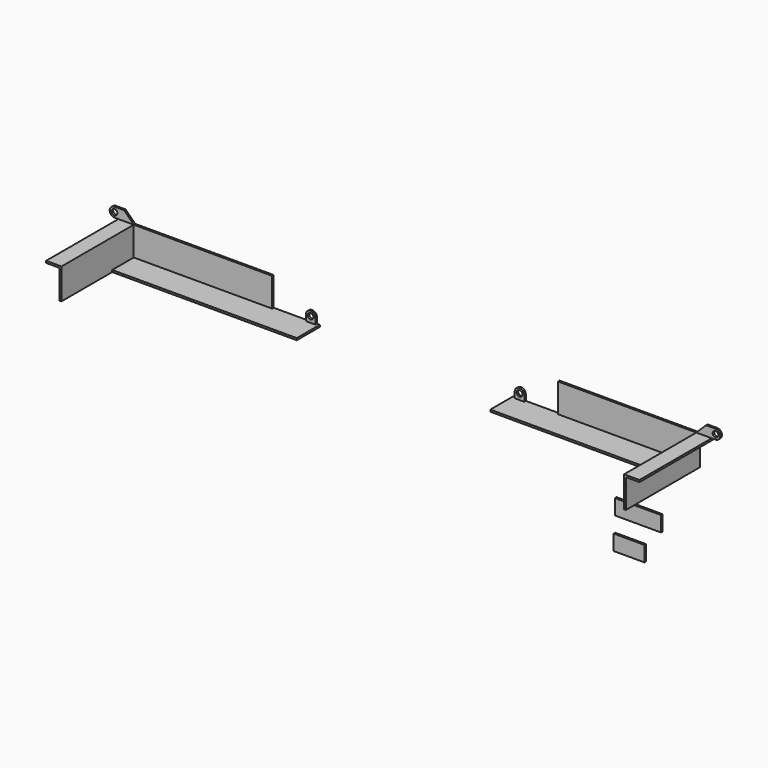
from build123d import *

# Parameters (mm, degrees)
F1_DEPTH = 152.4
F0_R     = 4.7625
F2_DEPTH = 3.175
F0_W     = 228.6
F0_H     = 3.175
F0_W_2   = 25.4
F3_DEPTH = 47.625
F0_H_2   = 47.625
F4_DEPTH = 3.175
F5_W     = 76.2
F5_H     = 25.4
F5_W_2   = 50.8
F6_DEPTH = 3.175


with BuildPart() as f1:
    # F0 (on Front) → F1 (new body)
    with BuildSketch(Plane.XZ):
        Polygon((-834.53792, 42.034976), (-834.53792, 45.209976), (-834.53792, 92.834976), (-859.93792, 92.834976), (-859.93792, 89.659976), (-837.71292, 89.659976), (-837.71292, 42.034976), align=None)
        Polygon((120.089924, 89.659976), (120.089924, 92.834976), (94.689924, 92.834976), (94.689924, 45.209976), (94.689924, 42.034976), (97.864924, 42.034976), (97.864924, 89.659976), align=None)
    extrude(amount=F1_DEPTH)


with BuildPart() as f2:
    # F0 (on Front) → F2 (new body)
    with BuildSketch(Plane.XZ):
        with BuildLine():
            ThreePointArc((-858.35042, 100.772476), (-860.67526, 106.385136), (-866.28792, 108.709976))
            ThreePointArc((-866.28792, 108.709976), (-874.22542, 100.772476), (-866.28792, 92.834976))
            ThreePointArc((-866.28792, 92.834976), (-860.67526, 95.159816), (-858.35042, 100.772476))
        make_face()
        with Locations((-866.28792, 100.772476)):
            Circle(F0_R, mode=Mode.SUBTRACT)
        with BuildLine():
            Line((-859.93792, 92.834976), (-834.53792, 92.834976))
            Line((-834.53792, 92.834976), (-850.41292, 108.709976))
            Line((-850.41292, 108.709976), (-866.28792, 108.709976))
            ThreePointArc((-866.28792, 108.709976), (-860.67526, 106.385136), (-858.35042, 100.772476))
            ThreePointArc((-858.35042, 100.772476), (-860.67526, 95.159816), (-866.28792, 92.834976))
            Line((-866.28792, 92.834976), (-859.93792, 92.834976))
        make_face()
        with BuildLine():
            Line((94.689924, 92.834976), (120.089924, 92.834976))
            Line((120.089924, 92.834976), (126.439924, 92.834976))
            ThreePointArc((126.439924, 92.834976), (118.502424, 100.772476), (126.439924, 108.709976))
            Line((126.439924, 108.709976), (110.564924, 108.709976))
            Line((110.564924, 108.709976), (94.689924, 92.834976))
        make_face()
        with BuildLine():
            ThreePointArc((126.439924, 108.709976), (118.502424, 100.772476), (126.439924, 92.834976))
            ThreePointArc((126.439924, 92.834976), (132.052584, 95.159816), (134.377424, 100.772476))
            ThreePointArc((134.377424, 100.772476), (132.052584, 106.385136), (126.439924, 108.709976))
        make_face()
        with Locations((126.439924, 100.772476)):
            Circle(F0_R, mode=Mode.SUBTRACT)
        with BuildLine():
            ThreePointArc((-534.50042, 54.734976), (-542.43792, 46.797476), (-550.37542, 54.734976))
            Line((-550.37542, 54.734976), (-550.37542, 45.209976))
            Line((-550.37542, 45.209976), (-534.50042, 45.209976))
            Line((-534.50042, 45.209976), (-534.50042, 54.734976))
        make_face()
        with BuildLine():
            ThreePointArc((-534.50042, 54.734976), (-542.43792, 62.672476), (-550.37542, 54.734976))
            ThreePointArc((-550.37542, 54.734976), (-542.43792, 46.797476), (-534.50042, 54.734976))
        make_face()
        with Locations((-542.43792, 54.734976)):
            Circle(F0_R, mode=Mode.SUBTRACT)
        with BuildLine():
            ThreePointArc((-205.347576, 54.734976), (-197.410076, 46.797476), (-189.472576, 54.734976))
            ThreePointArc((-189.472576, 54.734976), (-197.410076, 62.672476), (-205.347576, 54.734976))
        make_face()
        with Locations((-197.410076, 54.734976)):
            Circle(F0_R, mode=Mode.SUBTRACT)
        with BuildLine():
            Line((-205.347576, 45.209976), (-189.472576, 45.209976))
            Line((-189.472576, 45.209976), (-189.472576, 54.734976))
            ThreePointArc((-189.472576, 54.734976), (-197.410076, 46.797476), (-205.347576, 54.734976))
            Line((-205.347576, 54.734976), (-205.347576, 45.209976))
        make_face()
    extrude(amount=F2_DEPTH)


with BuildPart() as f3:
    # F0 (on Front) → F3 (new body)
    with BuildSketch(Plane.XZ):
        with Locations((-720.23792, 43.622476)):
            Rectangle(F0_W, F0_H)
        with Locations((-593.23792, 43.622476)):
            Rectangle(F0_W_2, F0_H)
        with Locations((-567.83792, 43.622476)):
            Rectangle(F0_W_2, F0_H)
        Polygon((-534.50042, 45.209976), (-550.37542, 45.209976), (-555.13792, 45.209976), (-555.13792, 42.034976), (-529.73792, 42.034976), (-529.73792, 45.209976), align=None)
        Polygon((-184.710076, 42.034976), (-184.710076, 45.209976), (-189.472576, 45.209976), (-205.347576, 45.209976), (-210.110076, 45.209976), (-210.110076, 42.034976), align=None)
        with Locations((-172.010076, 43.622476)):
            Rectangle(F0_W_2, F0_H)
        with Locations((-146.610076, 43.622476)):
            Rectangle(F0_W_2, F0_H)
        with Locations((-19.610076, 43.622476)):
            Rectangle(F0_W, F0_H)
    extrude(amount=F3_DEPTH)


with BuildPart() as f4:
    # F0 (on Front) → F4 (new body)
    with BuildSketch(Plane.XZ):
        with Locations((-720.23792, 69.022476)):
            Rectangle(F0_W, F0_H_2)
        with Locations((-19.610076, 69.022476)):
            Rectangle(F0_W, F0_H_2)
    extrude(amount=F4_DEPTH)


with BuildPart() as f6:
    # F5 (on Front) → F6 (new body)
    with BuildSketch(Plane.XZ):
        with Locations((-1.771966, -58.767139)):
            Rectangle(F5_W, F5_H)
        with Locations((-16.376971, -111.154639)):
            Rectangle(F5_W_2, F5_H)
    extrude(amount=F6_DEPTH)


solid = Compound([f1.part, f2.part, f3.part, f4.part, f6.part])
